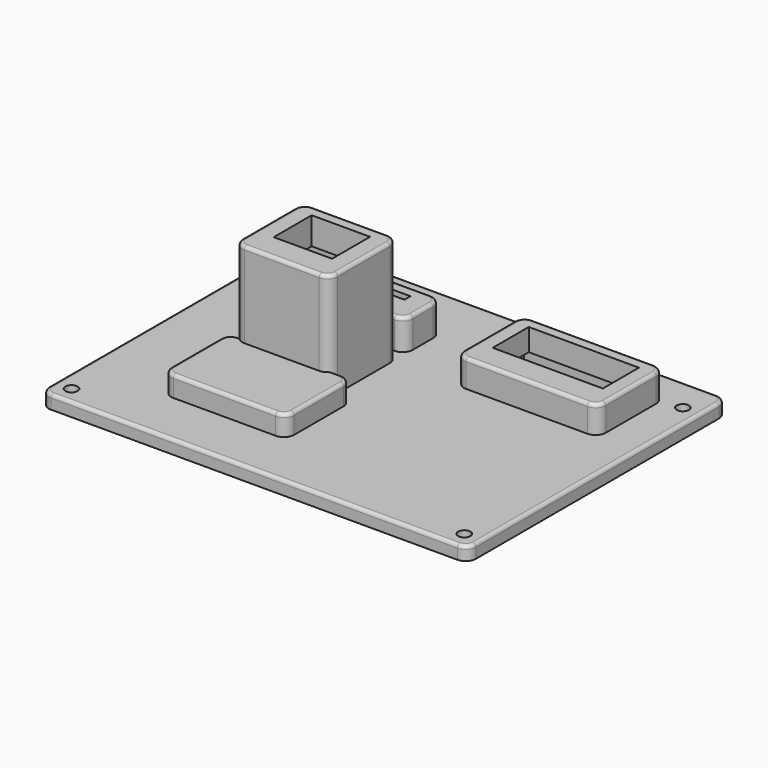
from build123d import *

# Parameters (mm, degrees)
SKETCH004_W     = 27.9
SKETCH004_H     = 25.1
PAD_DEPTH       = 35
POCKET_DEPTH    = 32.001
SKETCH002_W     = 17.1
SKETCH002_H     = 13.9
POCKET001_DEPTH = 35.001
SKETCH_W        = 23.9
SKETCH_H        = 21.1
POCKET002_DEPTH = 27.001
FILLET002_R     = 3
FILLET006_R     = 1
SKETCH008_W     = 27.9
SKETCH008_H     = 13.4
PAD001_DEPTH    = 13
POCKET003_DEPTH = 12.001
SKETCH006_W     = 15.5
SKETCH006_H     = 2.2
POCKET004_DEPTH = 13.001
SKETCH007_W     = 23.9
SKETCH007_H     = 9.4
POCKET005_DEPTH = 7.001
FILLET003_R     = 3
FILLET007_R     = 1
SKETCH013_W     = 125
SKETCH013_H     = 95
SKETCH013_W_2   = 23.9
SKETCH013_H_2   = 9.4
SKETCH013_H_3   = 21.1
SKETCH013_W_3   = 32
SKETCH013_H_4   = 20
SKETCH013_W_4   = 37.5
SKETCH013_H_5   = 20.4
PAD003_DEPTH    = 4
SKETCH016_R     = 1.8
POCKET010_DEPTH = 4.001
FILLET_R        = 3
FILLET009_R     = 1
SKETCH015_W     = 36
SKETCH015_H     = 24
PAD004_DEPTH    = 10
SKETCH014_W     = 32
SKETCH014_H     = 20
POCKET009_DEPTH = 7.001
FILLET001_R     = 3
FILLET005_R     = 1
SKETCH017_W     = 41.5
SKETCH017_H     = 24.4
PAD005_DEPTH    = 12
SKETCH020_W     = 37.5
SKETCH020_H     = 20.4
POCKET011_DEPTH = 5.501
SKETCH019_W     = 32.25
SKETCH019_H     = 13.2
POCKET012_DEPTH = 12.001
POCKET013_DEPTH = 10.501
FILLET010_R     = 3
FILLET011_R     = 1


with BuildPart() as eth_body:
    # Sketch004 → Pad (new body)
    with BuildSketch(Plane.XY):
        with Locations((10.45, 6.85)):
            Rectangle(SKETCH004_W, SKETCH004_H)
    extrude(amount=PAD_DEPTH)

    # Sketch003 → Pocket (cut, through all)
    with BuildSketch(Plane.XY.offset(32)):
        Polygon((0, 2), (20.9, 2), (20.9, 0), (20.1, 0), (20.1, -2.2), (0.8, -2.2), (0.8, 0), (0, 0), align=None)
    extrude(amount=-POCKET_DEPTH, mode=Mode.SUBTRACT)

    # Sketch002 → Pocket001 (cut, through all)
    with BuildSketch(Plane.XY):
        with Locations((10.45, 8.95)):
            Rectangle(SKETCH002_W, SKETCH002_H)
    extrude(amount=POCKET001_DEPTH, mode=Mode.SUBTRACT)

    # Sketch → Pocket002 (cut, through all)
    with BuildSketch(Plane.XY.offset(27)):
        with Locations((10.45, 6.85)):
            Rectangle(SKETCH_W, SKETCH_H)
    extrude(amount=-POCKET002_DEPTH, mode=Mode.SUBTRACT)

    # Fillet002
    fillet002_edges = [eth_body.edges().sort_by_distance(p)[0] for p in [
        (-3.5, -5.7, 17.5),
        (24.4, -5.7, 17.5),
        (24.4, 19.4, 17.5),
        (-3.5, 19.4, 17.5),
    ]]
    fillet(fillet002_edges, radius=FILLET002_R)

    # Fillet006
    fillet006_edges = [eth_body.edges().sort_by_distance(p)[0] for p in [
        (24.4, 6.85, 0),
        (24.4, -2.7, 17.5),
        (24.4, 16.4, 17.5),
        (24.4, 6.85, 35),
    ]]
    fillet(fillet006_edges, radius=FILLET006_R)


with BuildPart() as eth_body_1:
    # Body placement: moved
    add(eth_body.part.moved(Location((29.5, 44, 0))))


with BuildPart() as sd_body:
    # Sketch008 → Pad001 (new body)
    with BuildSketch(Plane.XY):
        with Locations((10.45, 1)):
            Rectangle(SKETCH008_W, SKETCH008_H)
    extrude(amount=PAD001_DEPTH)

    # Sketch005 → Pocket003 (cut, through all)
    with BuildSketch(Plane.XY.offset(12)):
        Polygon((0, 2), (20.9, 2), (20.9, 0), (20.1, 0), (20.1, -2.2), (0.8, -2.2), (0.8, 0), (0, 0), align=None)
    extrude(amount=-POCKET003_DEPTH, mode=Mode.SUBTRACT)

    # Sketch006 → Pocket004 (cut, through all)
    with BuildSketch(Plane.XY):
        with Locations((10.45, 3.1)):
            Rectangle(SKETCH006_W, SKETCH006_H)
    extrude(amount=POCKET004_DEPTH, mode=Mode.SUBTRACT)

    # Sketch007 → Pocket005 (cut, through all)
    with BuildSketch(Plane.XY.offset(7)):
        with Locations((10.45, 1)):
            Rectangle(SKETCH007_W, SKETCH007_H)
    extrude(amount=-POCKET005_DEPTH, mode=Mode.SUBTRACT)

    # Fillet003
    fillet003_edges = [sd_body.edges().sort_by_distance(p)[0] for p in [
        (-3.5, -5.7, 6.5),
        (-3.5, 7.7, 6.5),
        (24.4, 7.7, 6.5),
        (24.4, -5.7, 6.5),
    ]]
    fillet(fillet003_edges, radius=FILLET003_R)

    # Fillet007
    fillet007_edges = [sd_body.edges().sort_by_distance(p)[0] for p in [
        (10.45, 7.7, 0),
        (21.4, 7.7, 6.5),
        (-0.5, 7.7, 6.5),
        (10.45, 7.7, 13),
    ]]
    fillet(fillet007_edges, radius=FILLET007_R)


with BuildPart() as sd_body_1:
    # Body001 placement: moved
    add(sd_body.part.moved(Location((29.5, 71.5, 0))))


with BuildPart() as cover_body:
    # Sketch013 → Pad003 (new body)
    with BuildSketch(Plane.XY):
        with Locations((62.5, 47.5)):
            Rectangle(SKETCH013_W, SKETCH013_H)
        with Locations((39.95, 72.5)):
            Rectangle(SKETCH013_W_2, SKETCH013_H_2, mode=Mode.SUBTRACT)
        with Locations((39.95, 50.85)):
            Rectangle(SKETCH013_W_2, SKETCH013_H_3, mode=Mode.SUBTRACT)
        with Locations((41, 28)):
            Rectangle(SKETCH013_W_3, SKETCH013_H_4, mode=Mode.SUBTRACT)
        with Locations((93.25, 73.5)):
            Rectangle(SKETCH013_W_4, SKETCH013_H_5, mode=Mode.SUBTRACT)
    extrude(amount=PAD003_DEPTH)

    # Sketch016 → Pocket010 (cut, through all)
    with BuildSketch(Plane.XY):
        with Locations((5, 5)):
            Circle(SKETCH016_R)
        with Locations((120, 5)):
            Circle(SKETCH016_R)
        with Locations((120, 85)):
            Circle(SKETCH016_R)
        with Locations((5, 85)):
            Circle(SKETCH016_R)
    extrude(amount=POCKET010_DEPTH, mode=Mode.SUBTRACT)

    # Fillet
    fillet_edges = [cover_body.edges().sort_by_distance(p)[0] for p in [
        (0, 0, 2),
        (125, 0, 2),
        (125, 95, 2),
        (0, 95, 2),
    ]]
    fillet(fillet_edges, radius=FILLET_R)

    # Fillet009
    fillet009_edges = [cover_body.edges().sort_by_distance(p)[0] for p in [
        (62.5, 0, 4),
    ]]
    fillet(fillet009_edges, radius=FILLET009_R)


with BuildPart() as cap_body:
    # Sketch015 → Pad004 (new body)
    with BuildSketch(Plane.XY):
        with Locations((16, 10)):
            Rectangle(SKETCH015_W, SKETCH015_H)
    extrude(amount=PAD004_DEPTH)

    # Sketch014 → Pocket009 (cut, through all)
    with BuildSketch(Plane.XY.offset(7)):
        with Locations((16, 10)):
            Rectangle(SKETCH014_W, SKETCH014_H)
    extrude(amount=-POCKET009_DEPTH, mode=Mode.SUBTRACT)

    # Fillet001
    fillet001_edges = [cap_body.edges().sort_by_distance(p)[0] for p in [
        (-2, -2, 5),
        (34, -2, 5),
        (34, 22, 5),
        (-2, 22, 5),
    ]]
    fillet(fillet001_edges, radius=FILLET001_R)

    # Fillet005
    fillet005_edges = [cap_body.edges().sort_by_distance(p)[0] for p in [
        (-2, 10, 0),
        (-2, 19, 5),
        (-2, 1, 5),
        (-2, 10, 10),
    ]]
    fillet(fillet005_edges, radius=FILLET005_R)


with BuildPart() as cap_body_1:
    # Body004 placement: moved
    add(cap_body.part.moved(Location((25, 18, 0))))


with BuildPart() as rs232_body:
    # Sketch017 → Pad005 (new body)
    with BuildSketch(Plane.XY):
        with Locations((17.25, 6.5)):
            Rectangle(SKETCH017_W, SKETCH017_H)
    extrude(amount=PAD005_DEPTH)

    # Sketch020 → Pocket011 (cut, through all)
    with BuildSketch(Plane.XY.offset(5.5)):
        with Locations((17.25, 6.5)):
            Rectangle(SKETCH020_W, SKETCH020_H)
    extrude(amount=-POCKET011_DEPTH, mode=Mode.SUBTRACT)

    # Sketch019 → Pocket012 (cut, through all)
    with BuildSketch(Plane.XY):
        with Locations((17.25, 8.6)):
            Rectangle(SKETCH019_W, SKETCH019_H)
    extrude(amount=POCKET012_DEPTH, mode=Mode.SUBTRACT)

    # Sketch018 → Pocket013 (cut, through all)
    with BuildSketch(Plane.XY.offset(10.5)):
        Polygon((0, 2), (0, 0), (0.8, 0), (0.8, -2.2), (33.7, -2.2), (33.7, 0), (34.5, 0), (34.5, 2), align=None)
    extrude(amount=-POCKET013_DEPTH, mode=Mode.SUBTRACT)

    # Fillet010
    fillet010_edges = [rs232_body.edges().sort_by_distance(p)[0] for p in [
        (38, -5.7, 6),
        (-3.5, -5.7, 6),
        (38, 18.7, 6),
        (-3.5, 18.7, 6),
    ]]
    fillet(fillet010_edges, radius=FILLET010_R)

    # Fillet011
    fillet011_edges = [rs232_body.edges().sort_by_distance(p)[0] for p in [
        (17.25, 18.7, 0),
        (35, 18.7, 6),
        (-0.5, 18.7, 6),
        (17.25, 18.7, 12),
    ]]
    fillet(fillet011_edges, radius=FILLET011_R)


with BuildPart() as rs232_body_1:
    # Body005 placement: moved
    add(rs232_body.part.moved(Location((76, 67, 0))))


solid = Compound([eth_body_1.part, sd_body_1.part, cover_body.part, cap_body_1.part, rs232_body_1.part])
